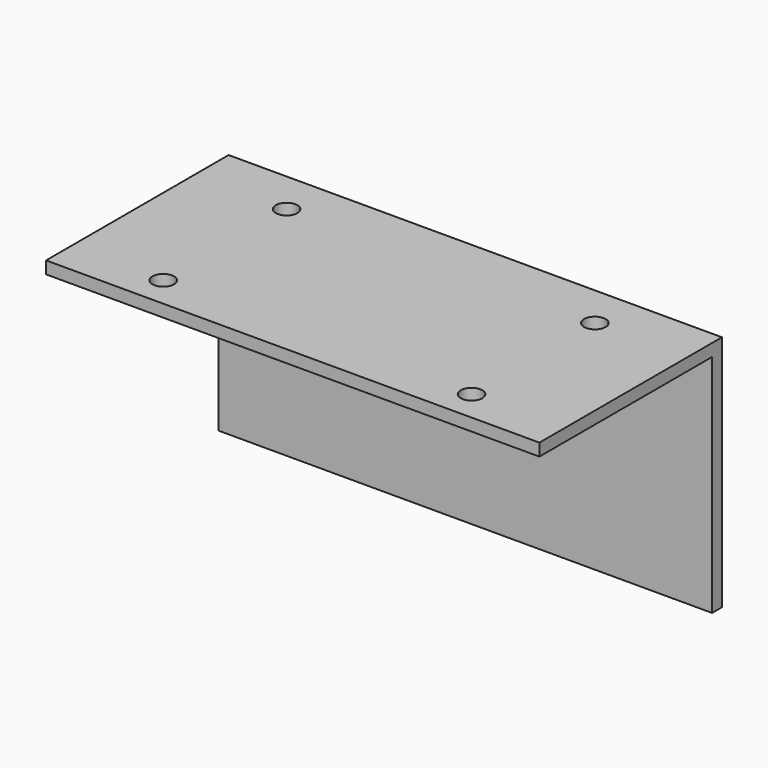
from build123d import *

# Parameters (mm, degrees)
F0_W     = 60
F0_H     = 35
F1_DEPTH = 2
F2_R     = 1.75
F3_DEPTH = 2.001
F4_DEPTH = 10
F5_DEPTH = 10
F6_W     = 80
F6_H     = 36.5470070392
F6_H_2   = 2
F7_DEPTH = 2


with BuildPart() as f1:
    # F0 (on Top) → F1 (new body)
    with BuildSketch(Plane.XY):
        with Locations((30, 17.5)):
            Rectangle(F0_W, F0_H)
    extrude(amount=F1_DEPTH)

    # F2 (on face) → F3 (cut, through all)
    with BuildSketch(Plane.XY.offset(2)):
        with Locations((5, 5)):
            Circle(F2_R)
        with Locations((5, 30)):
            Circle(F2_R)
        with Locations((55, 30)):
            Circle(F2_R)
        with Locations((55, 5)):
            Circle(F2_R)
    extrude(amount=-F3_DEPTH, mode=Mode.SUBTRACT)

    # F4 (add): a face of the model
    f4_faces = [f1.faces().sort_by_distance(p)[0] for p in [
        (60, 17.5, 1),
    ]]
    extrude(f4_faces, amount=F4_DEPTH)

    # F5 (add): a face of the model
    f5_faces = [f1.faces().sort_by_distance(p)[0] for p in [
        (0, 17.5, 1),
    ]]
    extrude(f5_faces, amount=F5_DEPTH)

    # F6 (on face) → F7 (join)
    with BuildSketch(Plane(origin=(0, 35, 0), x_dir=(-1, 0, 0), z_dir=(0, 1, 0))):
        with Locations((-30, -18.2735035196)):
            Rectangle(F6_W, F6_H)
        with Locations((-30, 1)):
            Rectangle(F6_W, F6_H_2)
    extrude(amount=F7_DEPTH)


solid = f1.part
